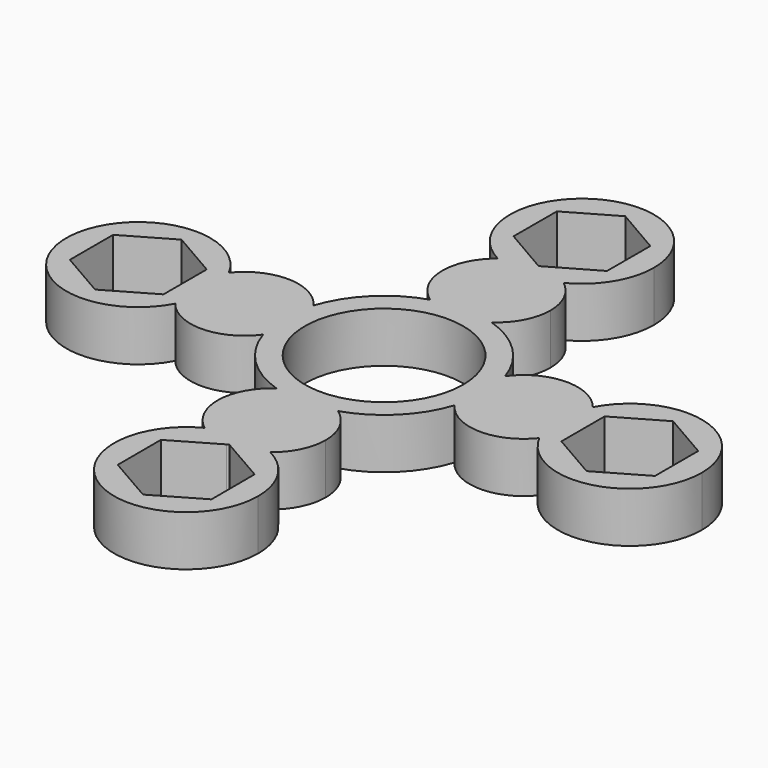
from build123d import *

# Parameters (mm, degrees)
F0_R     = 11
F1_DEPTH = 7


with BuildPart() as f1:
    # F0 (on Top) → F1 (new body)
    with BuildSketch(Plane.XY):
        with BuildLine():
            ThreePointArc((13.2974054648, -4.3793844206), (13.8232354481, -2.2176928881), (14, 0))
            ThreePointArc((14, 0), (13.8232354481, 2.2176928881), (13.2974054648, 4.3793844206))
            ThreePointArc((13.2974054648, 4.3793844206), (11.886000713, 0), (13.2974054648, -4.3793844206))
        make_face()
        with BuildLine():
            ThreePointArc((13.2974054648, 4.3793844206), (13.8232354481, 2.2176928881), (14, 0))
            ThreePointArc((14, 0), (13.8232354481, -2.2176928881), (13.2974054648, -4.3793844206))
            ThreePointArc((13.2974054648, -4.3793844206), (19.2189530709, -7.4981394416), (25.2735191818, -4.6461948172))
            ThreePointArc((25.2735191818, -4.6461948172), (24.1286235697, 0), (25.2735191818, 4.6461948172))
            ThreePointArc((25.2735191818, 4.6461948172), (19.2189530709, 7.4981394416), (13.2974054648, 4.3793844206))
        make_face()
        with BuildLine():
            ThreePointArc((13.2974054648, -4.3793844206), (11.886000713, 0), (13.2974054648, 4.3793844206))
            ThreePointArc((13.2974054648, 4.3793844206), (9.8549975816, 9.943793173), (4.259935586, 13.3361519489))
            ThreePointArc((4.259935586, 13.3361519489), (0, 12.0089105545), (-4.259935586, 13.3361519489))
            ThreePointArc((-4.259935586, 13.3361519489), (-9.8549975816, 9.943793173), (-13.2974054648, 4.3793844206))
            ThreePointArc((-13.2974054648, 4.3793844206), (-12.2475672588, 2.3006016211), (-11.886000713, 0))
            ThreePointArc((-11.886000713, 0), (-12.2475672588, -2.3006016211), (-13.2974054648, -4.3793844206))
            ThreePointArc((-13.2974054648, -4.3793844206), (-9.8549975816, -9.943793173), (-4.259935586, -13.3361519489))
            ThreePointArc((-4.259935586, -13.3361519489), (0, -12.0089105545), (4.259935586, -13.3361519489))
            ThreePointArc((4.259935586, -13.3361519489), (9.8549975816, -9.943793173), (13.2974054648, -4.3793844206))
        make_face()
        Circle(F0_R, mode=Mode.SUBTRACT)
        with BuildLine():
            ThreePointArc((-4.259935586, 13.3361519489), (0, 12.0089105545), (4.259935586, 13.3361519489))
            ThreePointArc((4.259935586, 13.3361519489), (0, 14), (-4.259935586, 13.3361519489))
        make_face()
        with BuildLine():
            ThreePointArc((-4.259935586, 13.3361519489), (0, 14), (4.259935586, 13.3361519489))
            ThreePointArc((4.259935586, 13.3361519489), (6.6407648993, 16.0231908938), (7.5, 19.5089105545))
            ThreePointArc((7.5, 19.5089105545), (6.7279488058, 22.8232287145), (4.5707453691, 25.4551939963))
            ThreePointArc((4.5707453691, 25.4551939963), (0, 24.3494779344), (-4.5707453691, 25.4551939963))
            ThreePointArc((-4.5707453691, 25.4551939963), (-7.4975346995, 19.316625791), (-4.259935586, 13.3361519489))
        make_face()
        with BuildLine():
            ThreePointArc((44.1286235697, 0), (36.5212117208, 9.7095582773), (25.2735191818, 4.6461948172))
            ThreePointArc((25.2735191818, 4.6461948172), (26.4714219608, 2.4590253642), (26.886000713, 0))
            ThreePointArc((26.886000713, 0), (26.4714219608, -2.4590253642), (25.2735191818, -4.6461948172))
            ThreePointArc((25.2735191818, -4.6461948172), (36.5212117208, -9.7095582773), (44.1286235697, 0))
        make_face()
        Polygon((40.6286230082, 3.7527777224), (40.6286241313, -3.7527757771), (34.1286246929, -7.5055534995), (27.6286241313, -3.7527777224), (27.6286230082, 3.7527757771), (34.1286224466, 7.5055534995), align=None, mode=Mode.SUBTRACT)
        with BuildLine():
            ThreePointArc((26.886000713, 0), (26.4714219608, 2.4590253642), (25.2735191818, 4.6461948172))
            ThreePointArc((25.2735191818, 4.6461948172), (24.1286235697, 0), (25.2735191818, -4.6461948172))
            ThreePointArc((25.2735191818, -4.6461948172), (26.4714219608, -2.4590253642), (26.886000713, 0))
        make_face()
        with BuildLine():
            ThreePointArc((7.5, -19.5089105545), (6.6407648993, -16.0231908938), (4.259935586, -13.3361519489))
            ThreePointArc((4.259935586, -13.3361519489), (0, -14), (-4.259935586, -13.3361519489))
            ThreePointArc((-4.259935586, -13.3361519489), (-7.4975346995, -19.316625791), (-4.5707453691, -25.4551939963))
            ThreePointArc((-4.5707453691, -25.4551939963), (0, -24.3494779344), (4.5707453691, -25.4551939963))
            ThreePointArc((4.5707453691, -25.4551939963), (6.7279488058, -22.8232287145), (7.5, -19.5089105545))
        make_face()
        with BuildLine():
            ThreePointArc((-4.259935586, -13.3361519489), (0, -14), (4.259935586, -13.3361519489))
            ThreePointArc((4.259935586, -13.3361519489), (0, -12.0089105545), (-4.259935586, -13.3361519489))
        make_face()
        with BuildLine():
            ThreePointArc((-11.886000713, 0), (-12.2475672588, 2.3006016211), (-13.2974054648, 4.3793844206))
            ThreePointArc((-13.2974054648, 4.3793844206), (-14, 0), (-13.2974054648, -4.3793844206))
            ThreePointArc((-13.2974054648, -4.3793844206), (-12.2475672588, -2.3006016211), (-11.886000713, 0))
        make_face()
        with BuildLine():
            ThreePointArc((-13.2974054648, -4.3793844206), (-14, 0), (-13.2974054648, 4.3793844206))
            ThreePointArc((-13.2974054648, 4.3793844206), (-19.2189530709, 7.4981394416), (-25.2735191818, 4.6461948172))
            ThreePointArc((-25.2735191818, 4.6461948172), (-24.4190652925, 2.392588151), (-24.1286235697, 0))
            ThreePointArc((-24.1286235697, 0), (-24.4190652925, -2.392588151), (-25.2735191818, -4.6461948172))
            ThreePointArc((-25.2735191818, -4.6461948172), (-19.2189530709, -7.4981394416), (-13.2974054648, -4.3793844206))
        make_face()
        with BuildLine():
            ThreePointArc((10, 34.3494779344), (-5.2102085519, 42.8849173985), (-4.5707453691, 25.4551939963))
            ThreePointArc((-4.5707453691, 25.4551939963), (-2.5500626452, 26.5620786728), (-0.2887287026, 27.0033508762))
            Line((-0.2887287026, 27.0033508762), (-6.506880643, 30.6086441194))
            Line((-6.506880643, 30.6086441194), (-6.4930974366, 38.1141849631))
            Line((-6.4930974366, 38.1141849631), (0.0137832064, 41.8550187781))
            Line((0.0137832064, 41.8550187781), (6.506880643, 38.0903117494))
            Line((6.506880643, 38.0903117494), (6.4930974366, 30.5847709057))
            Line((6.4930974366, 30.5847709057), (0.2650273068, 27.0042264602))
            ThreePointArc((0.2650273068, 27.0042264602), (2.5389071934, 26.5661019408), (4.5707453691, 25.4551939963))
            ThreePointArc((4.5707453691, 25.4551939963), (8.5354394641, 29.1392693825), (10, 34.3494779344))
        make_face()
        with BuildLine():
            ThreePointArc((-0.2887287026, 27.0033508762), (-2.5500626452, 26.5620786728), (-4.5707453691, 25.4551939963))
            ThreePointArc((-4.5707453691, 25.4551939963), (0, 24.3494779344), (4.5707453691, 25.4551939963))
            ThreePointArc((4.5707453691, 25.4551939963), (2.5389071934, 26.5661019408), (0.2650273068, 27.0042264602))
            Line((0.2650273068, 27.0042264602), (-0.0137832064, 26.8439370907))
            Line((-0.0137832064, 26.8439370907), (-0.2887287026, 27.0033508762))
        make_face()
        with BuildLine():
            ThreePointArc((4.5707453691, -25.4551939963), (0, -24.3494779344), (-4.5707453691, -25.4551939963))
            ThreePointArc((-4.5707453691, -25.4551939963), (-2.5500626452, -26.5620786728), (-0.2887287026, -27.0033508762))
            Line((-0.2887287026, -27.0033508762), (-0.0137832064, -26.8439370907))
            Line((-0.0137832064, -26.8439370907), (0.2650273068, -27.0042264602))
            ThreePointArc((0.2650273068, -27.0042264602), (2.5389071934, -26.5661019408), (4.5707453691, -25.4551939963))
        make_face()
        with BuildLine():
            ThreePointArc((-0.2887287026, -27.0033508762), (-2.5500626452, -26.5620786728), (-4.5707453691, -25.4551939963))
            ThreePointArc((-4.5707453691, -25.4551939963), (-5.2102085519, -42.8849173985), (10, -34.3494779344))
            ThreePointArc((10, -34.3494779344), (8.5354394641, -29.1392693825), (4.5707453691, -25.4551939963))
            ThreePointArc((4.5707453691, -25.4551939963), (2.5389071934, -26.5661019408), (0.2650273068, -27.0042264602))
            Line((0.2650273068, -27.0042264602), (6.4930974366, -30.5847709057))
            Line((6.4930974366, -30.5847709057), (6.506880643, -38.0903117494))
            Line((6.506880643, -38.0903117494), (0.0137832064, -41.8550187781))
            Line((0.0137832064, -41.8550187781), (-6.4930974366, -38.1141849631))
            Line((-6.4930974366, -38.1141849631), (-6.506880643, -30.6086441194))
            Line((-6.506880643, -30.6086441194), (-0.2887287026, -27.0033508762))
        make_face()
        with BuildLine():
            ThreePointArc((-24.1286235697, 0), (-24.4190652925, 2.392588151), (-25.2735191818, 4.6461948172))
            ThreePointArc((-25.2735191818, 4.6461948172), (-26.886000713, 0), (-25.2735191818, -4.6461948172))
            ThreePointArc((-25.2735191818, -4.6461948172), (-24.4190652925, -2.392588151), (-24.1286235697, 0))
        make_face()
        with BuildLine():
            ThreePointArc((-25.2735191818, -4.6461948172), (-26.886000713, 0), (-25.2735191818, 4.6461948172))
            ThreePointArc((-25.2735191818, 4.6461948172), (-44.1286235697, 0), (-25.2735191818, -4.6461948172))
        make_face()
        Polygon((-27.6286241313, -3.7527777224), (-34.1286246929, -7.5055534995), (-40.6286241313, -3.7527757771), (-40.6286230082, 3.7527777224), (-34.1286224466, 7.5055534995), (-27.6286230082, 3.7527757771), align=None, mode=Mode.SUBTRACT)
    extrude(amount=F1_DEPTH)


solid = f1.part
